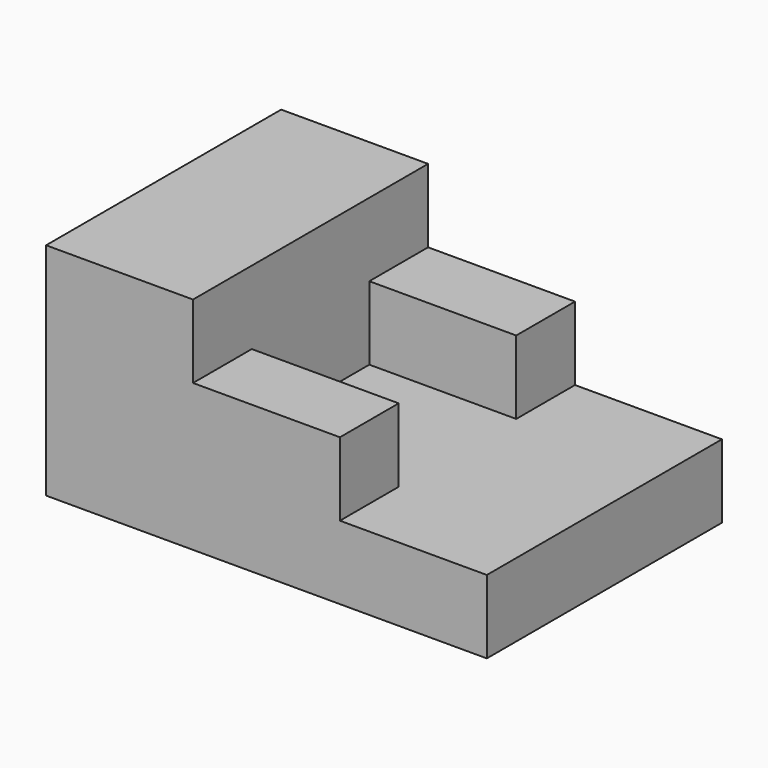
from build123d import *

# Parameters (mm, degrees)
F0_W     = 20
F0_H     = 40
F1_DEPTH = 30
F0_W_2   = 40
F2_DEPTH = 10
F3_W     = 20
F3_H     = 10
F4_DEPTH = 10


with BuildPart() as f1:
    # F0 (on Top) → F1 (new body)
    with BuildSketch(Plane.XY):
        with Locations((10, 20)):
            Rectangle(F0_W, F0_H)
    extrude(amount=F1_DEPTH)

    # F0 (on Top) → F2 (join)
    with BuildSketch(Plane.XY):
        with Locations((40, 20)):
            Rectangle(F0_W_2, F0_H)
    extrude(amount=F2_DEPTH)

    # F3 (on face) → F4 (join)
    with BuildSketch(Plane.XY.offset(10)):
        with Locations((30, 5)):
            Rectangle(F3_W, F3_H)
        with Locations((30, 35)):
            Rectangle(F3_W, F3_H)
    extrude(amount=F4_DEPTH)


solid = f1.part
